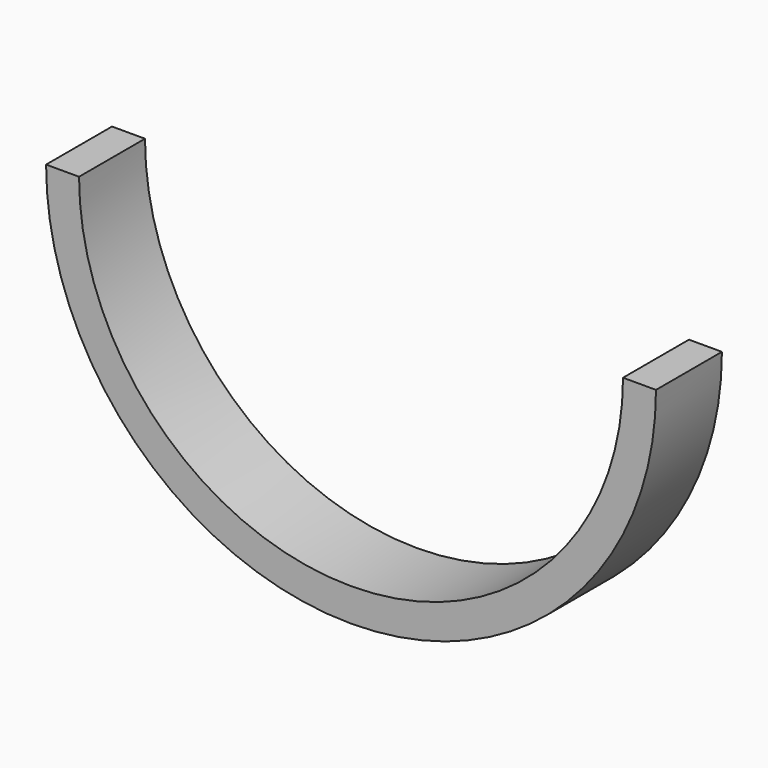
from build123d import *

# Parameters (mm, degrees)
F1_DEPTH = 5


with BuildPart() as f1:
    # F0 (on Front) → F1 (new body)
    with BuildSketch(Plane.XZ):
        with BuildLine():
            ThreePointArc((16.5, 0), (0, -16.5), (-16.5, 0))
            Line((-16.5, 0), (-18.5, 0))
            ThreePointArc((-18.5, 0), (0, -18.5), (18.5, 0))
            Line((18.5, 0), (16.5, 0))
        make_face()
        with BuildLine():
            ThreePointArc((16.5, 0), (0, -16.5), (-16.5, 0))
            Line((-16.5, 0), (-18.5, 0))
            ThreePointArc((-18.5, 0), (0, -18.5), (18.5, 0))
            Line((18.5, 0), (16.5, 0))
        make_face()
    extrude(amount=F1_DEPTH)


solid = f1.part
